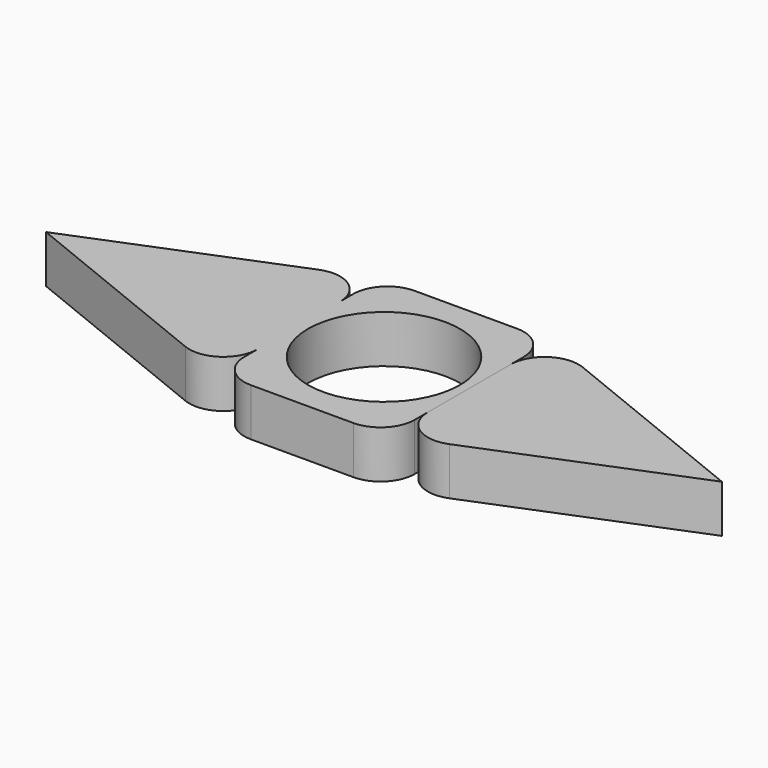
from build123d import *

# Parameters (mm, degrees)
F3_DEPTH = 7
F4_D     = 22.3


with BuildPart() as f3:
    # F1 (on Top) → F3 (new body)
    with BuildSketch(Plane.XY):
        with BuildLine():
            ThreePointArc((12.5, 10), (11.0355339059, 13.5355339059), (7.5, 15))
            Line((7.5, 15), (-7.5, 15))
            ThreePointArc((-7.5, 15), (-11.0355339059, 13.5355339059), (-12.5, 10))
            Line((-12.5, 10), (-12.5, 7.5838015129))
            Line((-12.5, 7.5838015129), (-12.5, -7.5838015129))
            Line((-12.5, -7.5838015129), (-12.5, -10))
            ThreePointArc((-12.5, -10), (-11.0355339059, -13.5355339059), (-7.5, -15))
            Line((-7.5, -15), (7.5, -15))
            ThreePointArc((7.5, -15), (11.0355339059, -13.5355339059), (12.5, -10))
            Line((12.5, -10), (12.5, 10))
        make_face()
        with BuildLine():
            Line((-12.5, -7.5838015129), (-12.5, 7.5838015129))
            ThreePointArc((-12.5, 7.5838015129), (-14.7049150281, 11.7295825008), (-19.375, 12.2189255673))
            Line((-19.375, 12.2189255673), (-49.5809924355, 0))
            Line((-49.5809924355, 0), (-19.375, -12.2189255673))
            ThreePointArc((-19.375, -12.2189255673), (-14.7049150281, -11.7295825008), (-12.5, -7.5838015129))
        make_face()
    extrude(amount=F3_DEPTH)

    # F4 (through all)
    with Locations(Plane(origin=(0, 0, 0), x_dir=(1, 0, 0), z_dir=(0, 0, -1))):
        with Locations((0, 0)):
            Hole(F4_D / 2)


with BuildPart() as f3b:
    # F2 (on Top) → F3, piece 2 (new body)
    with BuildSketch(Plane.XY):
        with BuildLine():
            Line((12.5, 7.5838015129), (12.5, 0))
            Line((12.5, 0), (12.5, -7.5838015129))
            ThreePointArc((12.5, -7.5838015129), (14.7049150281, -11.7295825008), (19.375, -12.2189255673))
            Line((19.375, -12.2189255673), (49.5809924355, 0))
            Line((49.5809924355, 0), (19.375, 12.2189255673))
            ThreePointArc((19.375, 12.2189255673), (14.7049150281, 11.7295825008), (12.5, 7.5838015129))
        make_face()
    extrude(amount=F3_DEPTH)


solid = Compound([f3.part, f3b.part])
